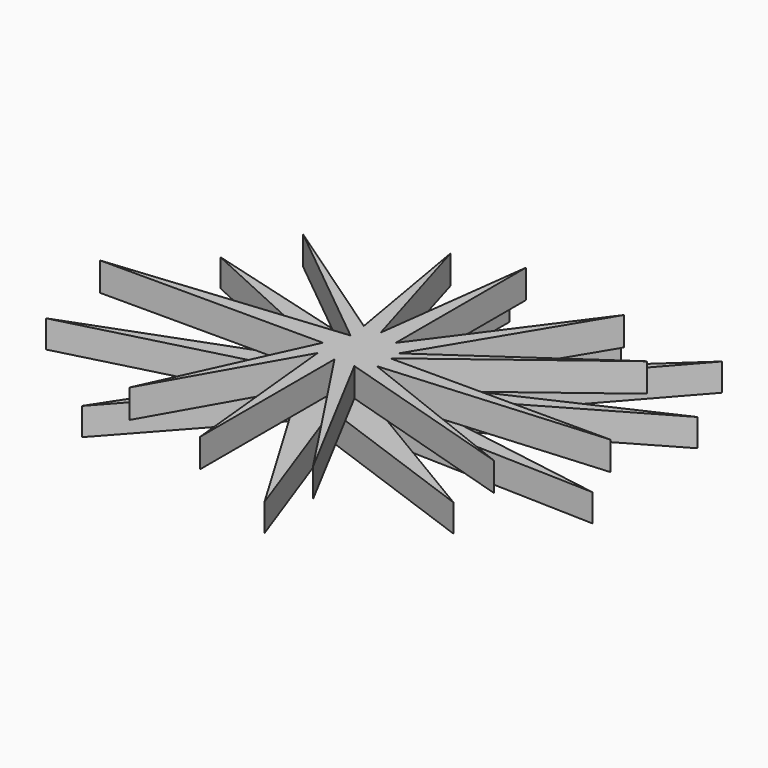
from build123d import *

# Parameters (mm, degrees)
F1_DEPTH = 6.604
F3_DEPTH = 6.858


with BuildPart() as f1:
    # F0 (on Top) → F1 (new body)
    with BuildSketch(Plane.XY):
        Polygon((49.038388, 48.116613), (7.927259, 10.323871), (25.994034, 46.641771), (0, 10.692582), (0, 45.720004), (-5.715, 9.955161), (-50.881937, 22.491291), (-7.374194, 2.580968), (-60.837097, -17.329356), (-9.217742, -3.871452), (-33.368226, -40.926777), (-5.899355, -10.323871), (17.698064, -49.960162), (4.424516, -13.089194), (45.535646, -28.021937), (9.95516, -6.821129), (63.233711, -8.480323), (11.614355, 0), (59.546616, 27.653227), (11.430001, 5.530645), align=None)
    extrude(amount=F1_DEPTH)


with BuildPart() as f3:
    # F2 (on face) → F3 (new body)
    with BuildSketch(Plane.XY.offset(6.604)):
        Polygon((4.793225, 44.613868), (0, 7.005484), (-9.886474, 40.395804), (-4.150697, 7.154371), (-36.317904, 29.128065), (-3.687096, 2.580968), (-59.362259, -2.949677), (-5.899355, -2.949677), (-22.86, -39.820645), (-4.055807, -6.821129), (0, -47.194839), (0, -6.821129), (24.150483, -43.50774), (4.60887, -6.636775), (49.038388, -20.279033), (7.927259, -4.055806), (60.837097, 0), (7.927259, 0), (46.273064, 29.128065), (7.927259, 2.580968), (31.155966, 41.11113), (4.793225, 5.530645), align=None)
    extrude(amount=F3_DEPTH)


solid = Compound([f1.part, f3.part])
